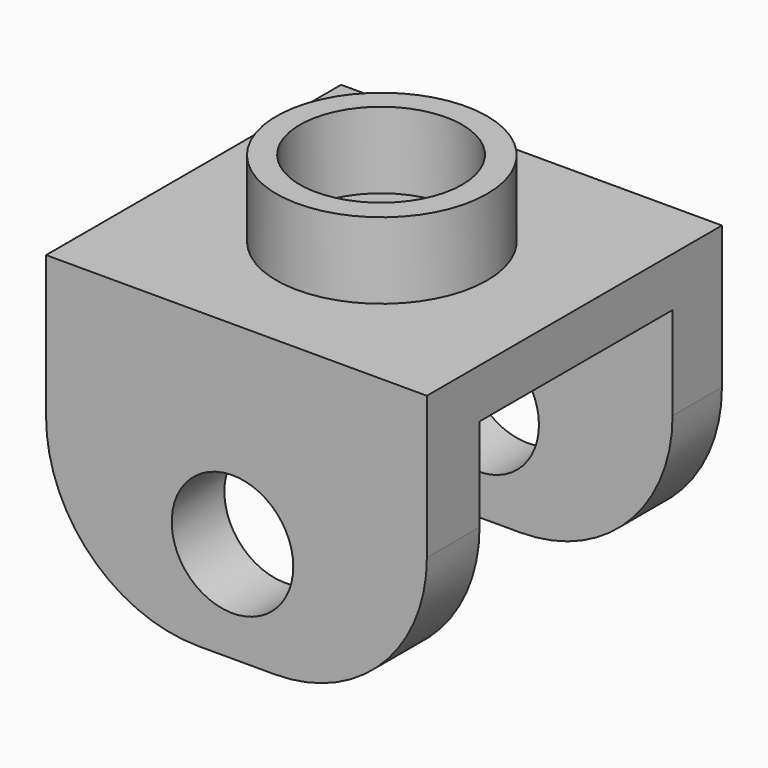
from build123d import *

# Parameters (mm, degrees)
F0_W      = 122.9868046939
F0_H      = 98.2980020344
F1_DEPTH  = 127
F2_W      = 80.4672054946
F2_H      = 81.8388015032
F3_DEPTH  = 127
F4_R      = 50.8
F5_R      = 20.2701316202
F6_DEPTH  = 254
F7_R      = 35.128731484
F8_DEPTH  = 25.4
F10_R     = 27.0682263701
F11_DEPTH = 25.4
F12_R     = 14.2572995328
F13_DEPTH = 50.8


with BuildPart() as f1:
    # F0 (on Right) → F1 (new body)
    with BuildSketch(Plane.YZ):
        with Locations((0.9144004434, 6.2865000218)):
            Rectangle(F0_W, F0_H)
    extrude(amount=F1_DEPTH)

    # F2 (on face) → F3 (cut)
    with BuildSketch(Plane.YZ.offset(127)):
        with Locations((1.6002003103, -1.9431002438)):
            Rectangle(F2_W, F2_H)
    extrude(amount=-F3_DEPTH, mode=Mode.SUBTRACT)

    # F4
    f4_edges = [f1.edges().sort_by_distance(p)[0] for p in [
        (127, -49.606202, -42.862501),
        (0, -49.606202, -42.862501),
        (0, 52.120803, -42.862501),
        (127, 52.120803, -42.862501),
    ]]
    fillet(f4_edges, radius=F4_R)

    # F5 (on face) → F6 (cut)
    with BuildSketch(Plane.XZ.offset(60.5790019035)):
        with Locations((62.1665008366, -9.2392507941)):
            Circle(F5_R)
    extrude(amount=-F6_DEPTH, mode=Mode.SUBTRACT)

    # F7 (on face) → F8 (join)
    with BuildSketch(Plane.XY.offset(55.435501039)):
        with Locations((63.5, 0)):
            Circle(F7_R)
    extrude(amount=F8_DEPTH)

    # F10 (on face) → F11 (cut)
    with BuildSketch(Plane.XY.offset(80.835501039)):
        with Locations((63.2483810186, 0)):
            Circle(F10_R)
    extrude(amount=-F11_DEPTH, mode=Mode.SUBTRACT)

    # F12 (on face) → F13 (cut)
    with BuildSketch(Plane.XY.offset(80.835501039)):
        with Locations((63.6905059218, 0)):
            Circle(F12_R)
    extrude(amount=-F13_DEPTH, mode=Mode.SUBTRACT)


solid = f1.part
